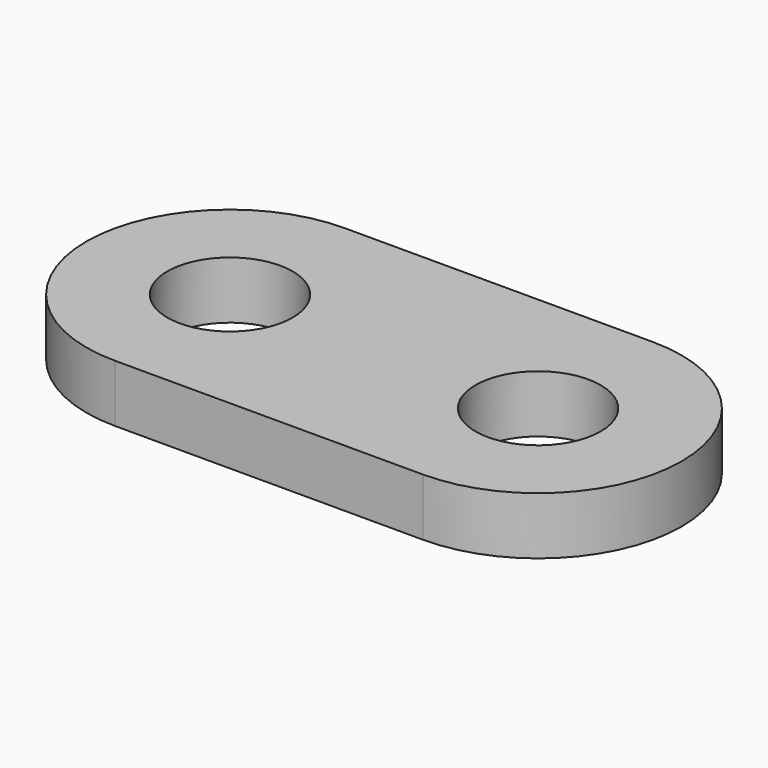
from build123d import *

# Parameters (mm, degrees)
SKETCH_R  = 2.4
PAD_DEPTH = 2.2


with BuildPart() as part:
    # Sketch → Pad (new body)
    with BuildSketch(Plane.XY):
        with BuildLine():
            ThreePointArc((-5.9, 5.5), (-11.4, 0), (-5.9, -5.5))
            Line((-5.9, -5.5), (5.9, -5.5))
            ThreePointArc((5.9, -5.5), (11.4, 0), (5.9, 5.5))
            Line((5.9, 5.5), (-5.9, 5.5))
        make_face()
        with Locations((-5.9, 0)):
            Circle(SKETCH_R, mode=Mode.SUBTRACT)
        with Locations((5.9, 0)):
            Circle(SKETCH_R, mode=Mode.SUBTRACT)
    extrude(amount=PAD_DEPTH)


solid = part.part
